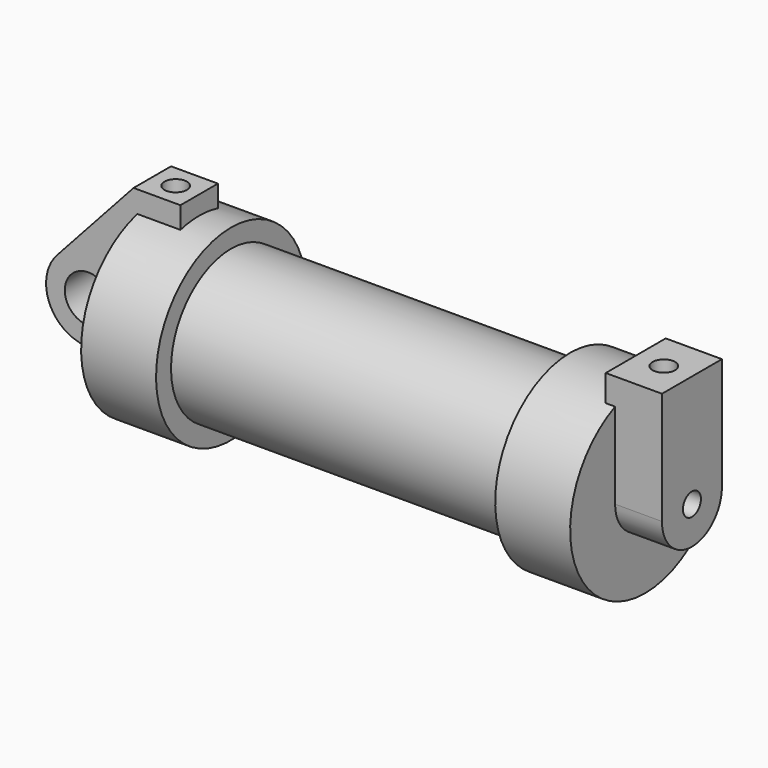
from build123d import *

# Parameters (mm, degrees)
F0_W          = 5.842
F0_H          = 12.7
F0_R          = 3.175
F2_DEPTH      = 3.175
F3_R          = 1.524
F4_DEPTH      = 6.35
F4_DEPTH_BACK = 1.27
F5_R          = 1.524
F7_DEPTH      = 17.78
F6_R          = 1.524
F8_DEPTH      = 10.414
F9_DEPTH      = 56.134


with BuildPart() as f1:
    # F0 (on Front) → F1 (revolve)
    with BuildSketch(Plane.XZ):
        Polygon((5.842, 12.7), (5.842, 0), (66.294, 0), (66.294, 12.7), (56.134, 12.7), (56.134, 10.16), (10.16, 10.16), (10.16, 12.7), align=None)
        with Locations((2.921, 6.35)):
            Rectangle(F0_W, F0_H)
    revolve(axis=Axis((33.147, 0, 0), (-1, 0, 0)))

    # F0 (on Front) → F2 (join, symmetric)
    with BuildSketch(Plane.XZ):
        with Locations((2.921, 6.35)):
            Rectangle(F0_W, F0_H)
        with BuildLine():
            Line((-0.9398, 0), (0, 0))
            Line((0, 0), (0, 12.7))
            Line((0, 12.7), (5.842, 12.7))
            Line((5.842, 12.7), (5.842, 15.24))
            Line((5.842, 15.24), (-0.508, 15.24))
            Line((-0.508, 15.24), (-10.8806298187, 3.8475430269))
            ThreePointArc((-10.8806298187, 3.8475430269), (-4.5919612295, 5.3297205562), (-0.9398, 0))
        make_face()
        with BuildLine():
            Line((5.842, 0), (0, 0))
            Line((0, 0), (-0.9398, 0))
            ThreePointArc((-0.9398, 0), (-3.1957909266, -4.5493385486), (-8.1826630726, -5.5069827884))
            Line((-8.1826630726, -5.5069827884), (5.842, -9.398))
            Line((5.842, -9.398), (5.842, 0))
        make_face()
        with BuildLine():
            ThreePointArc((-8.1826630726, -5.5069827884), (-3.1957909266, -4.5493385486), (-0.9398, 0))
            ThreePointArc((-0.9398, 0), (-4.5919612295, 5.3297205562), (-10.8806298187, 3.8475430269))
            ThreePointArc((-10.8806298187, 3.8475430269), (-12.1459778134, -1.5837270034), (-8.1826630726, -5.5069827884))
        make_face()
        with Locations((-6.6548, 0)):
            Circle(F0_R, mode=Mode.SUBTRACT)
    extrude(amount=F2_DEPTH, both=True)

    # F3 (on face) → F4 (join, two sides)
    with BuildSketch(Plane.YZ.offset(66.294)) as f4_sk:
        with BuildLine():
            ThreePointArc((-5.08, 0), (0, -5.08), (5.08, 0))
            ThreePointArc((5.08, 0), (0, 5.08), (-5.08, 0))
        make_face()
        Circle(F3_R, mode=Mode.SUBTRACT)
        with BuildLine():
            ThreePointArc((-5.08, 0), (0, 5.08), (5.08, 0))
            Line((5.08, 0), (5.08, 15.24))
            Line((5.08, 15.24), (-5.08, 15.24))
            Line((-5.08, 15.24), (-5.08, 0))
        make_face()
    extrude(amount=F4_DEPTH)
    extrude(f4_sk.sketch, amount=-F4_DEPTH_BACK)

    # F5 (on face) → F7 (cut)
    with BuildSketch(Plane.XY.offset(15.24)):
        with Locations((68.834, 0)):
            Circle(F5_R)
    extrude(amount=-F7_DEPTH, mode=Mode.SUBTRACT)

    # F6 (on face) → F8 (cut)
    with BuildSketch(Plane.XY.offset(15.24)):
        with Locations((2.667, 0)):
            Circle(F6_R)
    extrude(amount=-F8_DEPTH, mode=Mode.SUBTRACT)

    # F9 (cut, through all): a face of the model
    f9_faces = [f1.faces().sort_by_distance(p)[0] for p in [
        (66.294, 0, 0),
    ]]
    extrude(f9_faces, amount=-F9_DEPTH, mode=Mode.SUBTRACT)


solid = f1.part
